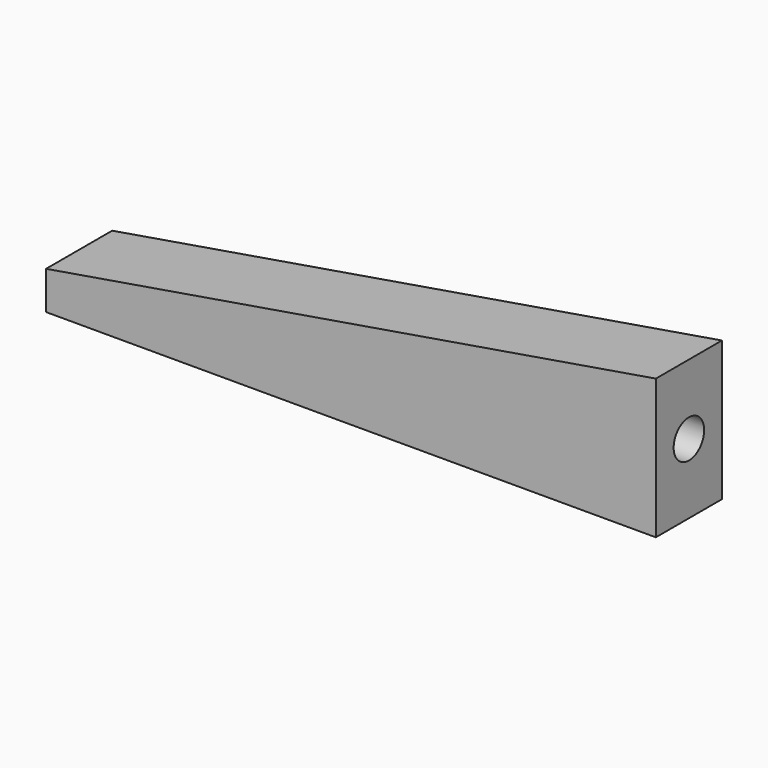
from build123d import *

# Parameters (mm, degrees)
F2_DEPTH = 20.6375
F1_R     = 9.525
F3_DEPTH = 50.8


with BuildPart() as f2:
    # F0 (on Front) → F2 (new body, symmetric)
    with BuildSketch(Plane.XZ):
        Polygon((-304.8, 0), (0, 0), (0, 69.85), (-304.8, 19.05), align=None)
    extrude(amount=F2_DEPTH, both=True)

    # F1 (on Right) → F3 (cut)
    with BuildSketch(Plane.YZ):
        with Locations((0, 34.925)):
            Circle(F1_R)
    extrude(amount=-F3_DEPTH, mode=Mode.SUBTRACT)


solid = f2.part
